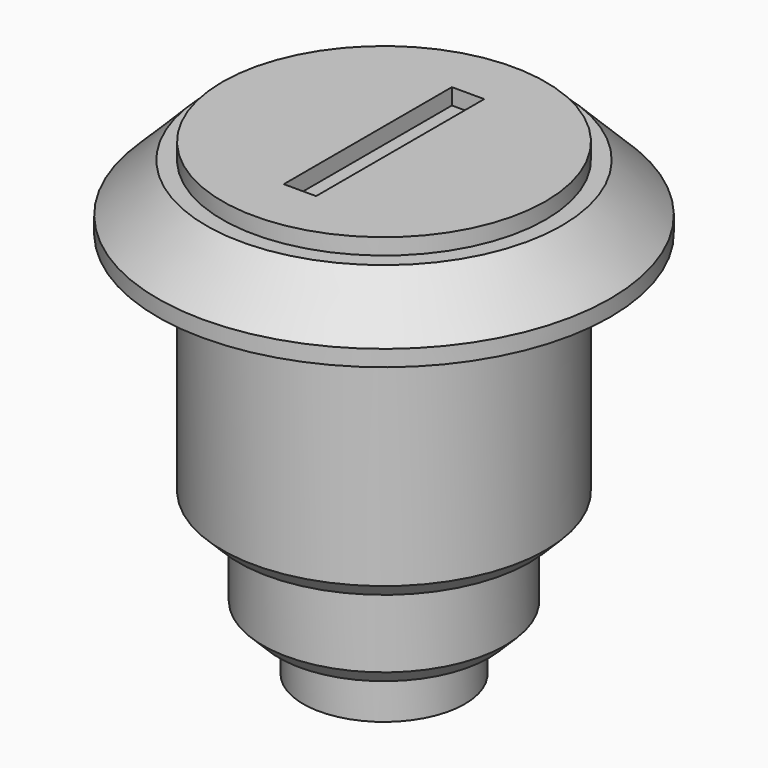
from build123d import *

# Parameters (mm, degrees)
SKETCH_R        = 5
PAD_DEPTH       = 3
SKETCH001_R     = 7.5
PAD001_DEPTH    = 6
SKETCH002_R     = 10
PAD002_DEPTH    = 15
SKETCH003_R     = 14
PAD003_DEPTH    = 4
SKETCH004_R     = 10
PAD004_DEPTH    = 1
SKETCH005_W     = 2
SKETCH005_H     = 13
POCKET_DEPTH    = 1
CHAMFER_SIZE    = 3
CHAMFER001_SIZE = 1


with BuildPart() as part:
    # Sketch → Pad (new body)
    with BuildSketch(Plane.XY):
        Circle(SKETCH_R)
    extrude(amount=PAD_DEPTH)

    # Sketch001 → Pad001 (new body)
    with BuildSketch(Plane.XY.offset(3)):
        Circle(SKETCH001_R)
    extrude(amount=PAD001_DEPTH)

    # Sketch002 → Pad002 (new body)
    with BuildSketch(Plane.XY.offset(9)):
        Circle(SKETCH002_R)
    extrude(amount=PAD002_DEPTH)

    # Sketch003 → Pad003 (new body)
    with BuildSketch(Plane.XY.offset(24)):
        Circle(SKETCH003_R)
    extrude(amount=PAD003_DEPTH)

    # Sketch004 → Pad004 (new body)
    with BuildSketch(Plane.XY.offset(28)):
        Circle(SKETCH004_R)
    extrude(amount=PAD004_DEPTH)

    # Sketch005 → Pocket (cut)
    with BuildSketch(Plane.XY.offset(29)):
        Rectangle(SKETCH005_W, SKETCH005_H)
    extrude(amount=-POCKET_DEPTH, mode=Mode.SUBTRACT)

    # Chamfer
    chamfer_edges = [part.edges().sort_by_distance(p)[0] for p in [
        (-14, 0, 28),
    ]]
    chamfer(chamfer_edges, length=CHAMFER_SIZE)

    # Chamfer001
    chamfer001_edges = [part.edges().sort_by_distance(p)[0] for p in [
        (-7.5, 0, 3),
        (-10, 0, 9),
    ]]
    chamfer(chamfer001_edges, length=CHAMFER001_SIZE)


solid = part.part
